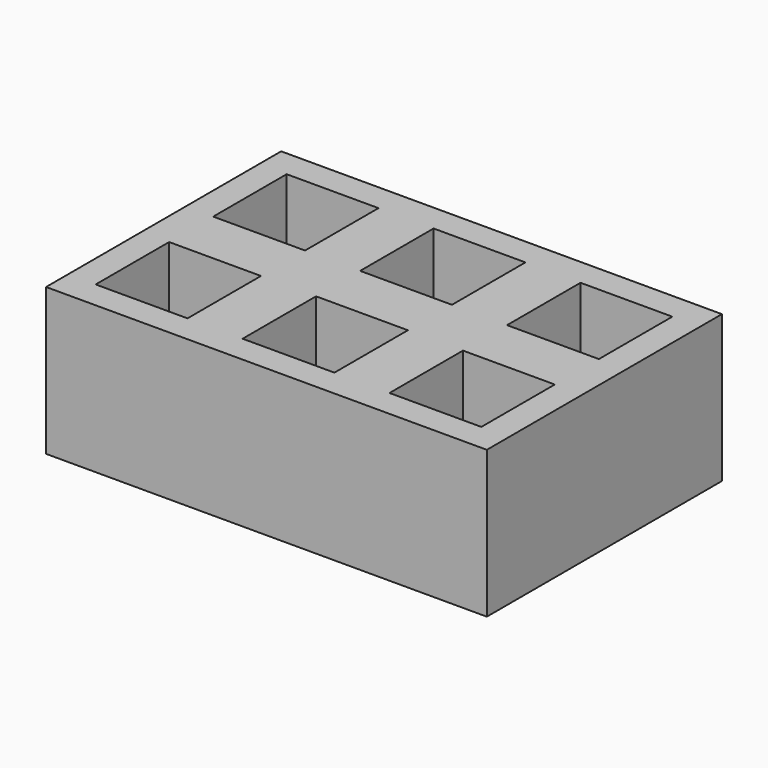
from build123d import *

# Parameters (mm, degrees)
F0_W     = 152.4
F0_H     = 101.6
F0_W_2   = 31.75
F0_H_2   = 31.75
F1_DEPTH = 50.8
F2_DEPTH = 25.4


with BuildPart() as f1:
    # F0 (on Top) → F1 (new body)
    with BuildSketch(Plane.XY):
        Rectangle(F0_W, F0_H)
        with Locations((-50.8, -25.4)):
            Rectangle(F0_W_2, F0_H_2, mode=Mode.SUBTRACT)
        Polygon((-15.875, -9.525), (0, -9.525), (15.875, -9.525), (15.875, -41.275), (-15.875, -41.275), align=None, mode=Mode.SUBTRACT)
        with Locations((50.8, -25.4)):
            Rectangle(F0_W_2, F0_H_2, mode=Mode.SUBTRACT)
        with Locations((-50.8, 25.4)):
            Rectangle(F0_W_2, F0_H_2, mode=Mode.SUBTRACT)
        Polygon((-15.875, 9.525), (-15.875, 41.275), (15.875, 41.275), (15.875, 9.525), (0, 9.525), align=None, mode=Mode.SUBTRACT)
        with Locations((50.8, 25.4)):
            Rectangle(F0_W_2, F0_H_2, mode=Mode.SUBTRACT)
    extrude(amount=F1_DEPTH)

    # F0 (on Top) → F2 (join)
    with BuildSketch(Plane.XY):
        with Locations((-50.8, 25.4)):
            Rectangle(F0_W_2, F0_H_2)
        Polygon((15.875, 41.275), (-15.875, 41.275), (-15.875, 9.525), (0, 9.525), (15.875, 9.525), align=None)
        with Locations((50.8, 25.4)):
            Rectangle(F0_W_2, F0_H_2)
        with Locations((50.8, -25.4)):
            Rectangle(F0_W_2, F0_H_2)
        Polygon((15.875, -9.525), (0, -9.525), (-15.875, -9.525), (-15.875, -41.275), (15.875, -41.275), align=None)
        with Locations((-50.8, -25.4)):
            Rectangle(F0_W_2, F0_H_2)
    extrude(amount=F2_DEPTH)


solid = f1.part
